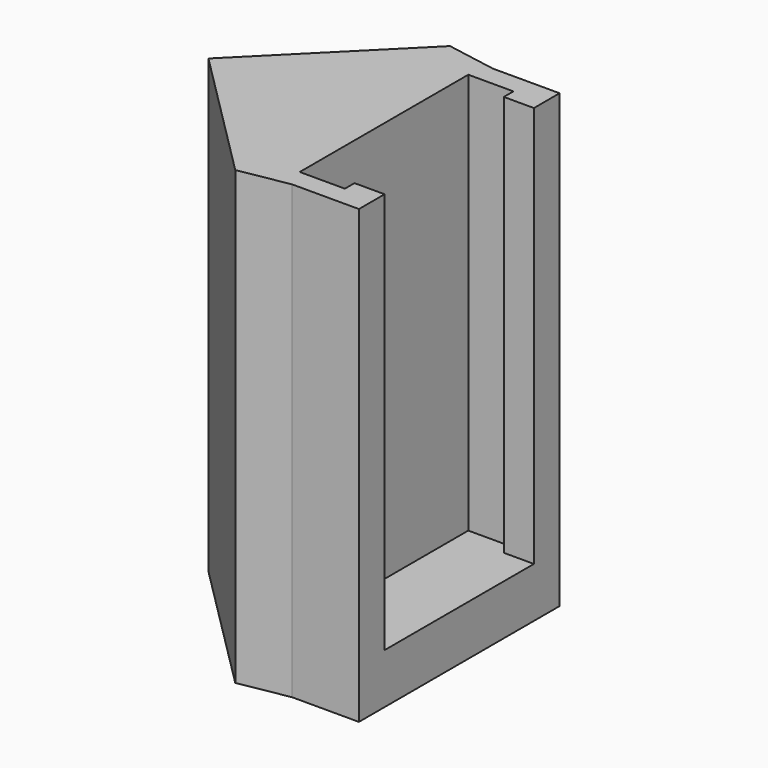
from build123d import *

# Parameters (mm, degrees)
PAD_DEPTH    = 45
POCKET_DEPTH = 40


with BuildPart() as part:
    # Sketch → Pad (new body)
    with BuildSketch(Plane.XY):
        Polygon((13.380021, 13.380021), (0, 0), (13.380021, -13.380021), (18.339621, -12.5), (25, -12.5), (25, 12.5), (18.339621, 12.5), align=None)
    extrude(amount=PAD_DEPTH)

    # Sketch001 (on Face9 of Pad) → Pocket (cut)
    with BuildSketch(Plane.XY.offset(45)):
        Polygon((25, 9.302202), (22, 9.302202), (22, 10.5), (17.5, 10.5), (17.5, -10.5), (22, -10.5), (22, -9.302202), (25, -9.302202), align=None)
    extrude(amount=-POCKET_DEPTH, mode=Mode.SUBTRACT)


solid = part.part
